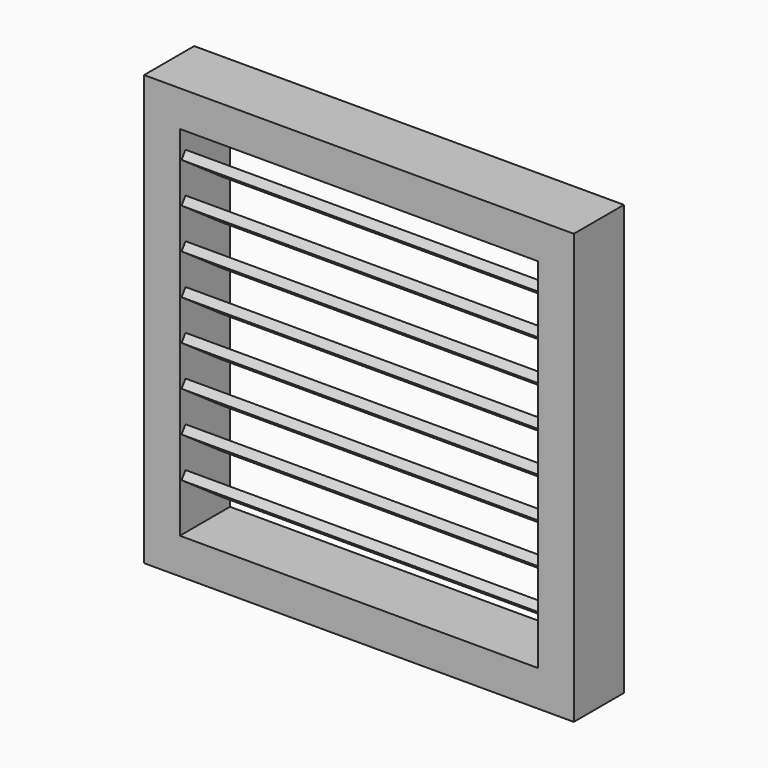
from build123d import *

# Parameters (mm, degrees)
F0_W     = 480
F0_H     = 480
F0_W_2   = 400
F0_H_2   = 400
F1_DEPTH = 70
F4_DEPTH = 400


with BuildPart() as f1:
    # F0 (on Front) → F1 (new body)
    with BuildSketch(Plane.XZ):
        Rectangle(F0_W, F0_H)
        Rectangle(F0_W_2, F0_H_2, mode=Mode.SUBTRACT)
    extrude(amount=F1_DEPTH)

    # F3 (on face) → F4 (join, through all)
    with BuildSketch(Plane.YZ.offset(-200)):
        Polygon((-7.956658, 138.452793), (-62.147888, 176.3979), (-67.618184, 168.585508), (-13.426954, 130.640401), align=None)
        Polygon((-62.147888, 131.3979), (-67.618184, 123.585508), (-13.426954, 85.640401), (-7.956658, 93.452793), align=None)
        Polygon((-62.147888, 86.3979), (-67.618184, 78.585508), (-13.426954, 40.640401), (-7.956658, 48.452793), align=None)
        Polygon((-62.147888, 41.3979), (-67.618184, 33.585508), (-13.426954, -4.359599), (-7.956658, 3.452793), align=None)
        Polygon((-62.147888, -3.6021), (-67.618184, -11.414492), (-13.426954, -49.359599), (-7.956658, -41.547207), align=None)
        Polygon((-62.147888, -48.6021), (-67.618184, -56.414492), (-13.426954, -94.359599), (-7.956658, -86.547207), align=None)
        Polygon((-62.147888, -93.6021), (-67.618184, -101.414492), (-13.426954, -139.359599), (-7.956658, -131.547207), align=None)
        Polygon((-62.147888, -138.6021), (-67.618184, -146.414492), (-13.426954, -184.359599), (-7.956658, -176.547207), align=None)
    extrude(amount=F4_DEPTH)


solid = f1.part
